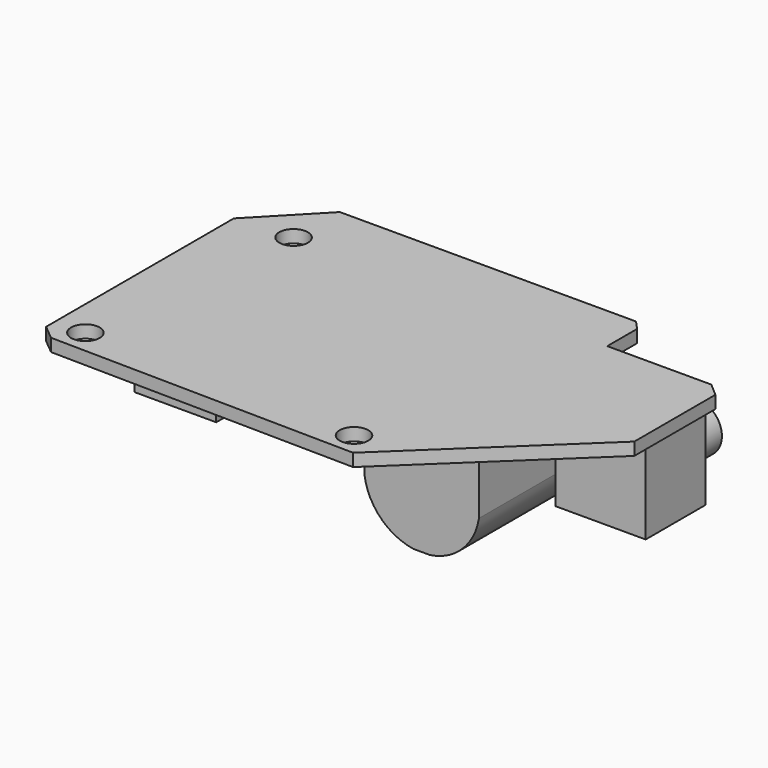
from build123d import *

# Parameters (mm, degrees)
SKETCH019_R             = 1.130326
PAD016_DEPTH            = 1
SKETCH020_W             = 5.904956
SKETCH020_H             = 7.129152
SKETCH020_W_2           = 14.33032
SKETCH020_H_2           = 9.073469
SKETCH020_W_3           = 13.041881
SKETCH020_H_3           = 7.469439
SKETCH020_W_4           = 2.541733
SKETCH020_H_4           = 6.479892
PAD017_DEPTH            = 1
PAD017_FACE36_W         = 7.129152
PAD017_FACE36_H         = 5.904956
PAD018_DEPTH            = 6.2
PAD018_FACE35_W         = 9.073469
PAD018_FACE35_H         = 14.33032
PAD019_DEPTH            = 10
PAD019_FACE34_W         = 7.469439
PAD019_FACE34_H         = 13.041881
PAD020_DEPTH            = 3.5
POCKET003_DEPTH         = 11
SKETCH022_R             = 1.91
PAD021_DEPTH            = 3.5
SKETCH023_R             = 2.22864
SKETCH023_R_2           = 1.768375
PAD022_DEPTH            = 2
BODY003_ROLL_ANGLE      = 180
BODY003_PLACEMENT_ANGLE = 90


with BuildPart() as part:
    # Sketch019 → Pad016 (new body)
    with BuildSketch(Plane.XY):
        Polygon((-15.284975, 18.270082), (-14.928669, -5.910554), (-13.97018, -7.070244), (4.600039, -7.070244), (9.354287, -2.482894), (9.354287, 20.950066), (8.622145, 21.624855), (5.667069, 21.624855), (5.667069, 29.864458), (4.754071, 30.908138), (-3.262787, 30.908138), align=None)
        with Locations((-13.437825, 16.870399)):
            Circle(SKETCH019_R, mode=Mode.SUBTRACT)
        with Locations((-13.075155, -4.675778)):
            Circle(SKETCH019_R, mode=Mode.SUBTRACT)
        with Locations((4.913836, -2.591921)):
            Circle(SKETCH019_R, mode=Mode.SUBTRACT)
    extrude(amount=PAD016_DEPTH)

    # Sketch020 (on Face16 of Pad016) → Pad017 (join)
    with BuildSketch(Plane.XY.offset(1)):
        with Locations((2.196002, 26.239064)):
            Rectangle(SKETCH020_W, SKETCH020_H)
        with Locations((2.159996, 15.4733225)):
            Rectangle(SKETCH020_W_2, SKETCH020_H_2)
        with Locations((2.0113995, 5.2073215)):
            Rectangle(SKETCH020_W_3, SKETCH020_H_3)
        with Locations((-13.1164825, 3.486279)):
            Rectangle(SKETCH020_W_4, SKETCH020_H_4)
    extrude(amount=PAD017_DEPTH)

    # Pad017 Face36 → Pad018 (add)
    with BuildSketch(Plane(origin=(2.196002, 26.239064, 2), x_dir=(0, 1, 0), z_dir=(0, 0, 1))):
        Rectangle(PAD017_FACE36_W, PAD017_FACE36_H)
    extrude(amount=PAD018_DEPTH)

    # Pad018 Face35 → Pad019 (add)
    with BuildSketch(Plane(origin=(2.159996, 15.4733225, 2), x_dir=(0, 1, 0), z_dir=(0, 0, 1))):
        Rectangle(PAD018_FACE35_W, PAD018_FACE35_H)
    extrude(amount=PAD019_DEPTH)

    # Pad019 Face34 → Pad020 (add)
    with BuildSketch(Plane(origin=(2.0113995, 5.2073215, 2), x_dir=(0, 1, 0), z_dir=(0, 0, 1))):
        Rectangle(PAD019_FACE34_W, PAD019_FACE34_H)
    extrude(amount=PAD020_DEPTH)

    # Sketch021 (on Face38 of Pad020) → Pocket003 (cut)
    with BuildSketch(Plane(origin=(-5.005164, 0, 0), x_dir=(0, -1, 0), z_dir=(-1, 0, 0))):
        with BuildLine():
            ThreePointArc((-10.909353, 7.32661), (-15.4381290695, 12.0450982539), (-20.065739, 7.4235))
            Line((-20.065739, 7.4235), (-23.086145, 11.442731))
            Line((-23.086145, 11.442731), (-16.489733, 15.336999))
            Line((-16.489733, 15.336999), (-4.992367, 12.502396))
            Line((-4.992367, 12.502396), (-10.909353, 7.32661))
        make_face()
    extrude(amount=-POCKET003_DEPTH, mode=Mode.SUBTRACT)

    # Sketch022 (on Face44 of Pocket003) → Pad021 (join)
    with BuildSketch(Plane.YZ.offset(5.14848)):
        with Locations((26.402317, 5.299071)):
            Circle(SKETCH022_R)
    extrude(amount=PAD021_DEPTH)

    # Sketch023 (on Face36 of Pad021) → Pad022 (join)
    with BuildSketch(Plane.YZ.offset(8.53234)):
        with Locations((5.306993, 3.250137)):
            Circle(SKETCH023_R)
        with Locations((5.306993, 3.250137)):
            Circle(SKETCH023_R_2, mode=Mode.SUBTRACT)
    extrude(amount=PAD022_DEPTH)


with BuildPart() as part_1:
    # Body003 roll: moved
    add(part.part.rotate(Axis((0, 0, 0), (1, 0, 0)), BODY003_ROLL_ANGLE))


with BuildPart() as part_2:
    # Body003 placement: moved
    add(part_1.part.moved(Location((18.8, 4.5, -4.4))).rotate(Axis((18.8, 4.5, -4.4), (0, 0, 1)), BODY003_PLACEMENT_ANGLE))


solid = part_2.part
